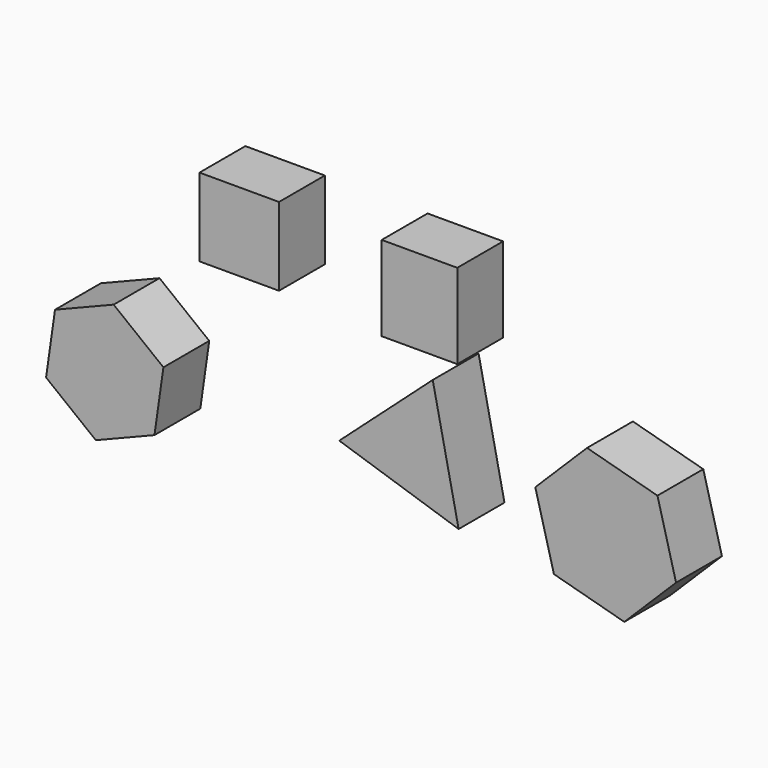
from build123d import *

# Parameters (mm, degrees)
F0_W     = 34.688168
F0_H     = 34.110039
F0_W_2   = 32.953782
F0_H_2   = 37.000716
F1_DEPTH = 25
F3_DEPTH = 25
F5_DEPTH = 25


with BuildPart() as f1:
    # F0 (on Front) → F1 (new body)
    with BuildSketch(Plane.XZ):
        with Locations((-47.26265, 42.92662)):
            Rectangle(F0_W, F0_H)
        with Locations((31.36389, 41.481279)):
            Rectangle(F0_W_2, F0_H_2)
    extrude(amount=F1_DEPTH)


with BuildPart() as f3:
    # F2 (on Front) → F3 (new body)
    with BuildSketch(Plane.XZ):
        Polygon((-131.53404, -40.485474), (-109.837874, -57.508622), (-84.247312, -47.230765), (-80.352917, -19.92976), (-102.049083, -2.906612), (-127.639645, -13.184469), align=None)
    extrude(amount=F3_DEPTH)


with BuildPart() as f5:
    # F4 (on Front) → F5 (new body)
    with BuildSketch(Plane.XZ):
        Polygon((-3.632625, -23.141384), (48.438166, -40.16453), (37.145248, 13.441671), align=None)
        Polygon((90.011122, -43.957501), (120.719535, -52.302182), (143.300448, -29.880256), (135.172946, 0.886351), (104.464533, 9.231031), (81.88362, -13.190895), align=None)
    extrude(amount=F5_DEPTH)


solid = Compound([f1.part, f3.part, f5.part])
